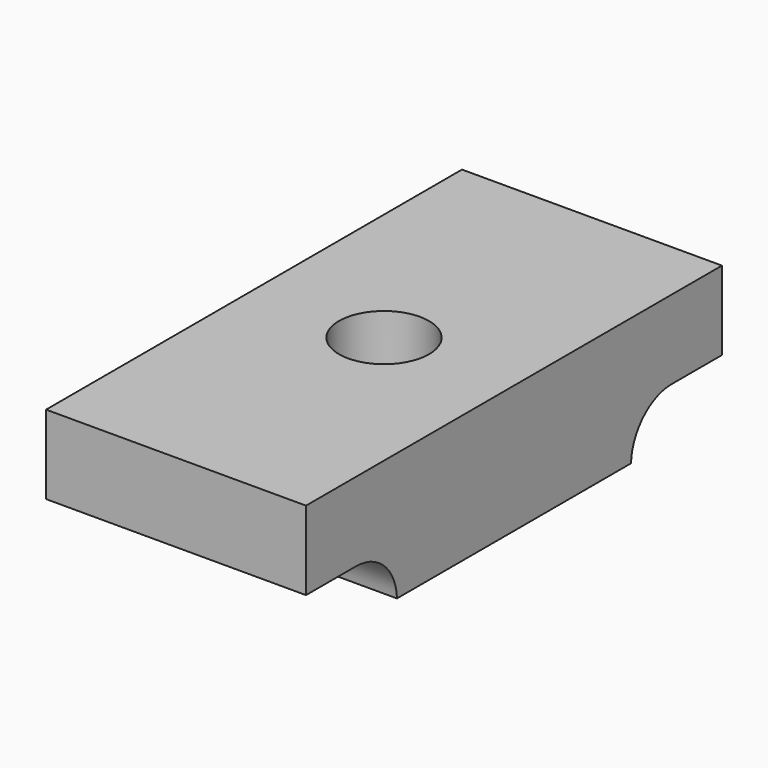
from build123d import *

# Parameters (mm, degrees)
F1_DEPTH = 12.7
F2_R     = 4.4
F3_DEPTH = 25


with BuildPart() as f1:
    # F0 (on Right) → F1 (new body, symmetric)
    with BuildSketch(Plane.YZ):
        with BuildLine():
            Line((25.4, 6.35), (-25.4, 6.35))
            Line((-25.4, 6.35), (-25.4, -1.35))
            Line((-25.4, -1.35), (-19.2875, -1.35))
            ThreePointArc((-19.2875, -1.35), (-15.823398, -2.744449), (-14.291502, -6.15))
            Line((-14.291502, -6.15), (14.291502, -6.15))
            ThreePointArc((14.291502, -6.15), (15.823398, -2.744449), (19.2875, -1.35))
            Line((19.2875, -1.35), (25.4, -1.35))
            Line((25.4, -1.35), (25.4, 6.35))
        make_face()
    extrude(amount=F1_DEPTH, both=True)

    # F2 (on face) → F3 (cut)
    with BuildSketch(Plane.XY.offset(6.35)):
        Circle(F2_R)
    extrude(amount=-F3_DEPTH, mode=Mode.SUBTRACT)


solid = f1.part
